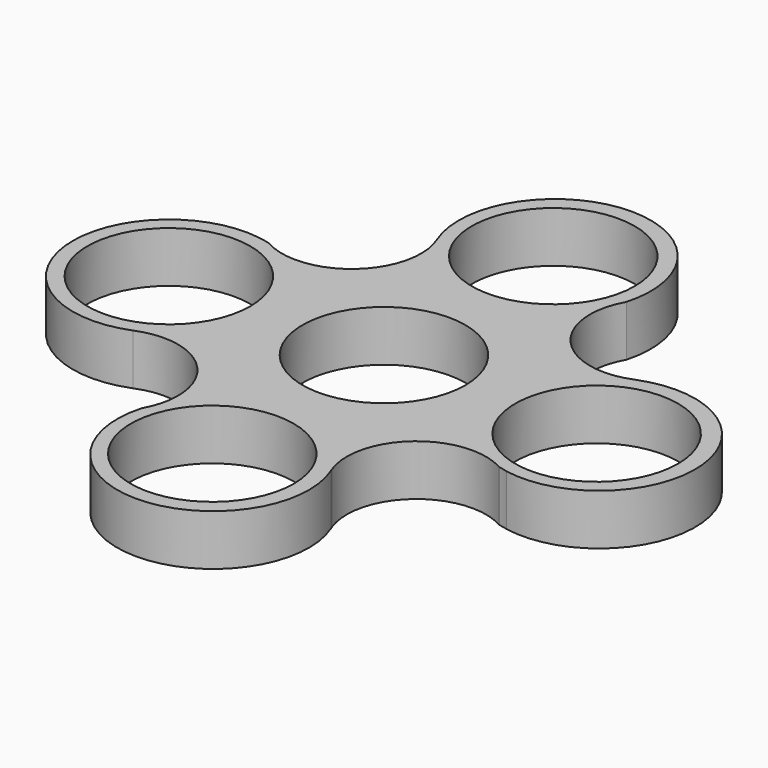
from build123d import *

# Parameters (mm, degrees)
F0_R     = 11.2
F1_DEPTH = 7


with BuildPart() as f1:
    # F0 (on Top) → F1 (new body)
    with BuildSketch(Plane.XY):
        with BuildLine():
            ThreePointArc((-12.366149, 24.604807), (-14.854792, 13.773093), (-25.906043, 12.594446))
            ThreePointArc((-25.906043, 12.594446), (-26.730495, 12.79927), (-27.566415, 12.950638))
            ThreePointArc((-27.566415, 12.950638), (-42.609831, -1.640792), (-24.604807, -12.366149))
            ThreePointArc((-24.604807, -12.366149), (-13.773093, -14.854792), (-12.594446, -25.906043))
            ThreePointArc((-12.594446, -25.906043), (0.794293, -42.681334), (12.366149, -24.604807))
            ThreePointArc((12.366149, -24.604807), (12.283154, -24.398146), (12.204989, -24.18961))
            ThreePointArc((12.204989, -24.18961), (15.023104, -13.627258), (25.906043, -12.594446))
            ThreePointArc((25.906043, -12.594446), (25.929502, -12.601059), (25.952972, -12.607629))
            ThreePointArc((25.952972, -12.607629), (26.544133, -12.727794), (27.128321, -12.878241))
            ThreePointArc((27.128321, -12.878241), (42.633773, 1.420061), (24.604807, 12.366149))
            ThreePointArc((24.604807, 12.366149), (13.773093, 14.854792), (12.594446, 25.906043))
            ThreePointArc((12.594446, 25.906043), (-0.794293, 42.681334), (-12.366149, 24.604807))
        make_face()
        with Locations((-0.072699, -29.426535)):
            Circle(F0_R, mode=Mode.SUBTRACT)
        with Locations((-29.499234, -0.107088)):
            Circle(F0_R, mode=Mode.SUBTRACT)
        with Locations((-0.179787, 29.319447)):
            Circle(F0_R, mode=Mode.SUBTRACT)
        Circle(F0_R, mode=Mode.SUBTRACT)
        with Locations((29.246747, 0)):
            Circle(F0_R, mode=Mode.SUBTRACT)
    extrude(amount=F1_DEPTH)


solid = f1.part
